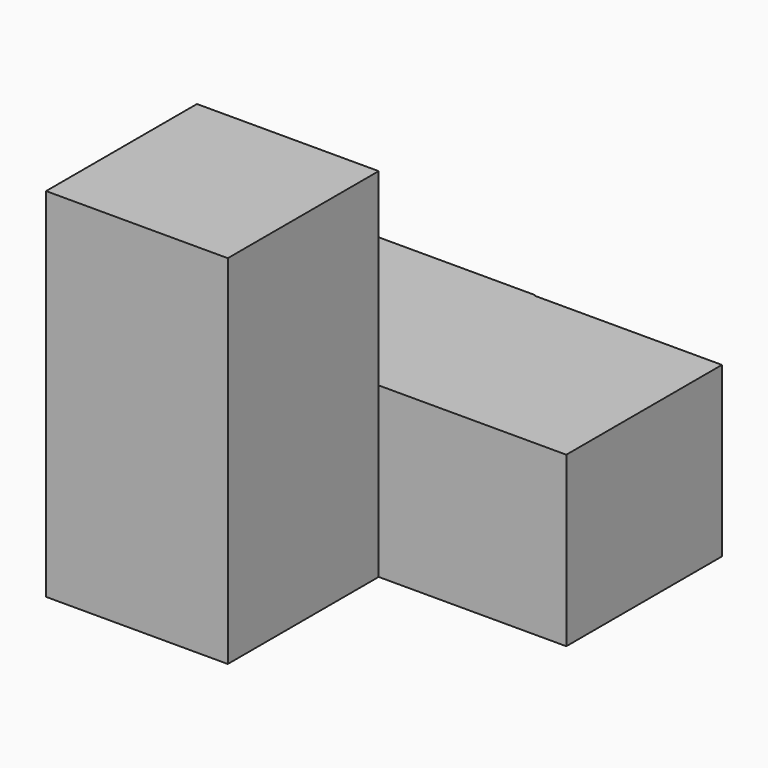
from build123d import *

# Parameters (mm, degrees)
F0_W     = 33.3538390696
F0_H     = 34.5730371773
F1_DEPTH = 29.972
F3_DEPTH = 33.528


with BuildPart() as f1:
    # F0 (on Top) → F1 (new body)
    with BuildSketch(Plane.XY):
        Polygon((0, -33.5171818733), (0, 0), (-32.2961620986, 0), (-32.297976315, 0), (-32.297976315, -33.5171818733), align=None)
        Polygon((-32.2961620986, 0), (0, 0), (0, 34.5730371773), (0, 34.7598306835), (-32.2961620986, 34.7598306835), align=None)
        with Locations((16.6769195348, 17.2865185887)):
            Rectangle(F0_W, F0_H)
    extrude(amount=F1_DEPTH)

    # F2 (on face) → F3 (join)
    with BuildSketch(Plane.XY.offset(29.972)):
        Polygon((-32.297976315, 0), (-32.297976315, -33.5171818733), (0, -33.5171818733), (0, 0), (-32.2961620986, 0), align=None)
    extrude(amount=F3_DEPTH)


solid = f1.part
